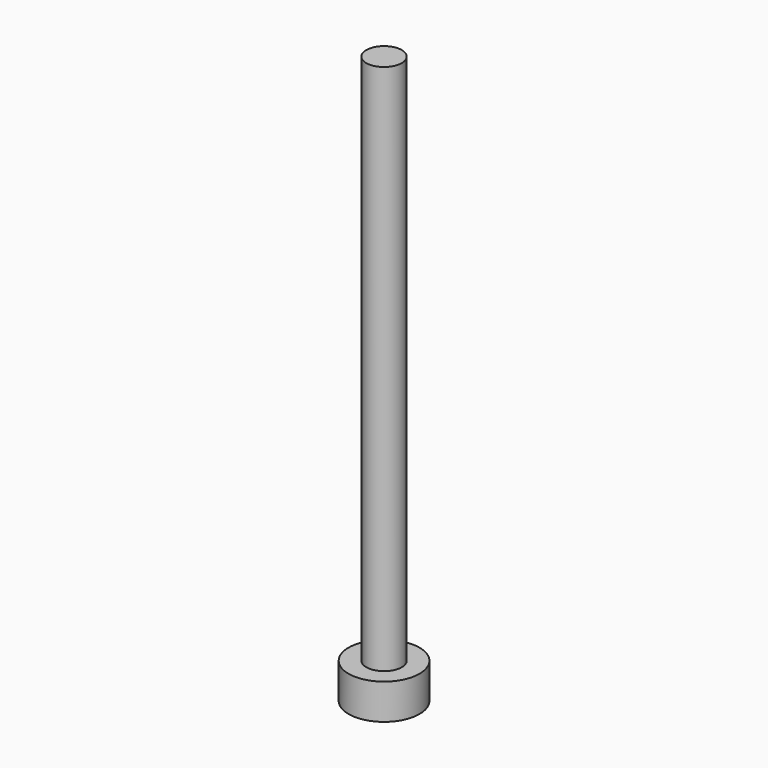
from build123d import *

# Parameters (mm, degrees)
F0_R     = 4
F0_R_2   = 2
F1_DEPTH = 4
F2_DEPTH = 60
F3_DEPTH = 1


with BuildPart() as f1:
    # F0 (on Top) → F1 (new body)
    with BuildSketch(Plane.XY):
        Circle(F0_R)
        Circle(F0_R_2, mode=Mode.SUBTRACT)
    extrude(amount=-F1_DEPTH)

    # F0 (on Top) → F2 (join)
    with BuildSketch(Plane.XY):
        Circle(F0_R_2)
    extrude(amount=F2_DEPTH)

    # F0 (on Top) → F3 (join)
    with BuildSketch(Plane.XY):
        Circle(F0_R)
        Circle(F0_R_2, mode=Mode.SUBTRACT)
        Circle(F0_R_2)
    extrude(amount=-F3_DEPTH)


solid = f1.part
